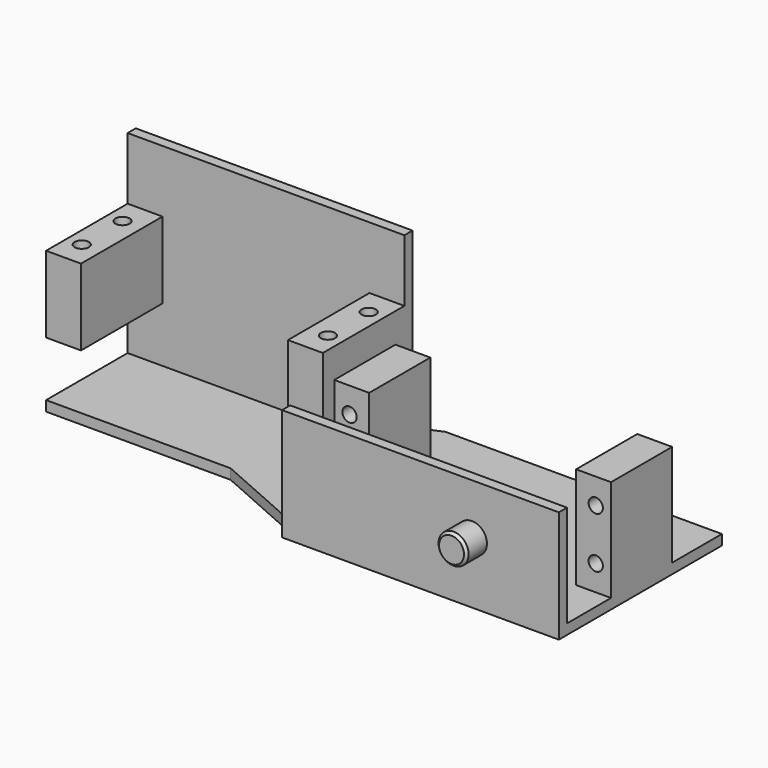
from build123d import *

# Parameters (mm, degrees)
PAD_DEPTH       = 2
SKETCH002_W     = 54.3
SKETCH002_H     = 22
PAD001_DEPTH    = 2
SKETCH003_R     = 2.95
PAD002_DEPTH    = 5
CHAMFER_SIZE    = 0.5
SKETCH004_W     = 6.85
SKETCH004_H     = 15
PAD003_DEPTH    = 20
SKETCH005_R     = 1.4
POCKET_DEPTH    = 15
SKETCH006_W     = 6.85
SKETCH006_H     = 15
PAD004_DEPTH    = 20
SKETCH007_R     = 1.4
POCKET001_DEPTH = 15
SKETCH008_W     = 54.3
SKETCH008_H     = 2
PAD005_DEPTH    = 38
SKETCH009_W     = 6.85
SKETCH009_H     = 15
PAD006_DEPTH    = 20
SKETCH010_R     = 1.4
POCKET002_DEPTH = 15
SKETCH011_W     = 6.85
SKETCH011_H     = 25.8
PAD007_DEPTH    = 20
SKETCH012_R     = 1.4
POCKET003_DEPTH = 15
SKETCH013_R     = 2.95
PAD008_DEPTH    = 5
CHAMFER001_SIZE = 0.5


with BuildPart() as part:
    # Sketch → Pad (new body)
    with BuildSketch(Plane.XY):
        Polygon((54.3, 19), (54.3, -19), (0, -19), (-18.1, -11), (-54.3, -11), (-54.3, 11), (-18.1, 11), (0, 19), align=None)
    extrude(amount=PAD_DEPTH)

    # Sketch002 (on Face2 of Pad) → Pad001 (join)
    with BuildSketch(Plane.XZ.offset(19)):
        with Locations((27.15, 11)):
            Rectangle(SKETCH002_W, SKETCH002_H)
    extrude(amount=PAD001_DEPTH)

    # Sketch003 (on Face10 of Pad001) → Pad002 (join)
    with BuildSketch(Plane.XZ.offset(21)):
        with Locations((37.25, 12)):
            Circle(SKETCH003_R)
    extrude(amount=PAD002_DEPTH)

    # Chamfer
    chamfer_edges = [part.edges().sort_by_distance(p)[0] for p in [
        (34.3, -26, 12),
    ]]
    chamfer(chamfer_edges, length=CHAMFER_SIZE)

    # Sketch004 (on Face18 of Chamfer) → Pad003 (join)
    with BuildSketch(Plane.XY.offset(2)):
        with Locations((3.425, -0.7)):
            Rectangle(SKETCH004_W, SKETCH004_H)
    extrude(amount=PAD003_DEPTH)

    # Sketch005 (on Face22 of Pad003) → Pocket (cut)
    with BuildSketch(Plane(origin=(0, 6.8, 0), x_dir=(-1, 0, 0), z_dir=(0, 1, 0))):
        with Locations((-3, 17)):
            Circle(SKETCH005_R)
        with Locations((-3, 7)):
            Circle(SKETCH005_R)
    extrude(amount=-POCKET_DEPTH, mode=Mode.SUBTRACT)

    # Sketch006 (on Face18 of Pocket) → Pad004 (join)
    with BuildSketch(Plane.XY.offset(2)):
        with Locations((50.875, -0.7)):
            Rectangle(SKETCH006_W, SKETCH006_H)
    extrude(amount=PAD004_DEPTH)

    # Sketch007 (on Face20 of Pad004) → Pocket001 (cut)
    with BuildSketch(Plane(origin=(0, 6.8, 0), x_dir=(-1, 0, 0), z_dir=(0, 1, 0))):
        with Locations((-51.3, 17)):
            Circle(SKETCH007_R)
        with Locations((-51.3, 7)):
            Circle(SKETCH007_R)
    extrude(amount=-POCKET001_DEPTH, mode=Mode.SUBTRACT)

    # Sketch008 (on Face18 of Pocket001) → Pad005 (join)
    with BuildSketch(Plane.XY.offset(2)):
        with Locations((-27.15, 10)):
            Rectangle(SKETCH008_W, SKETCH008_H)
    extrude(amount=PAD005_DEPTH)

    # Sketch009 (on Face25 of Pad005) → Pad006 (join)
    with BuildSketch(Plane.XZ.offset(-9)):
        with Locations((-50.875, 20.3)):
            Rectangle(SKETCH009_W, SKETCH009_H)
    extrude(amount=PAD006_DEPTH)

    # Sketch010 (on Face38 of Pad006) → Pocket002 (cut)
    with BuildSketch(Plane.XY.offset(27.8)):
        with Locations((-51.3, -6)):
            Circle(SKETCH010_R)
        with Locations((-51.3, 4)):
            Circle(SKETCH010_R)
    extrude(amount=-POCKET002_DEPTH, mode=Mode.SUBTRACT)

    # Sketch011 (on Face25 of Pocket002) → Pad007 (join)
    with BuildSketch(Plane.XZ.offset(-9)):
        with Locations((-3.425, 14.9)):
            Rectangle(SKETCH011_W, SKETCH011_H)
    extrude(amount=PAD007_DEPTH)

    # Sketch012 (on Face41 of Pad007) → Pocket003 (cut)
    with BuildSketch(Plane.XY.offset(27.8)):
        with Locations((-3, -6)):
            Circle(SKETCH012_R)
        with Locations((-3, 4)):
            Circle(SKETCH012_R)
    extrude(amount=-POCKET003_DEPTH, mode=Mode.SUBTRACT)

    # Sketch013 (on Face9 of Pocket003) → Pad008 (join)
    with BuildSketch(Plane(origin=(0, 0, 0), x_dir=(1, 0, 0), z_dir=(0, 0, -1))):
        with Locations((-37.25, -1)):
            Circle(SKETCH013_R)
    extrude(amount=PAD008_DEPTH)

    # Chamfer001
    chamfer001_edges = [part.edges().sort_by_distance(p)[0] for p in [
        (-40.2, 1, -5),
    ]]
    chamfer(chamfer001_edges, length=CHAMFER001_SIZE)


solid = part.part
